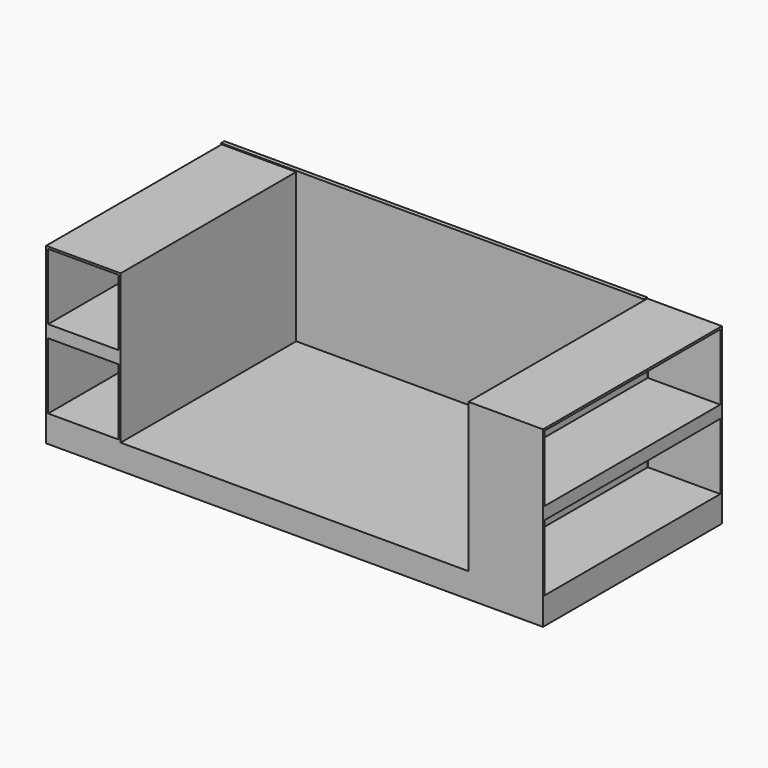
from build123d import *

# Parameters (mm, degrees)
F0_W     = 431.8
F0_H     = 406.4
F1_DEPTH = 1371.6
F3_T     = -2.54
F2_W     = 1371.6
F2_H     = 1066.8
F2_W_2   = 1346.2
F2_H_2   = 406.4
F4_DEPTH = 444.5
F5_W     = 2594.2790210247
F5_H     = 921.9796732068
F6_DEPTH = 25.4


with BuildPart() as f1:
    # F0 (on Front) → F1 (new body)
    with BuildSketch(Plane.XZ):
        Polygon((-444.5, 79.4924489021), (-2578.1, 79.4924489021), (-2578.1, 993.8924489021), (-3035.3, 993.8924489021), (-3035.3, 79.4924489021), (-3035.3, -72.9075510979), (12.7, -72.9075510979), (12.7, 79.4924489021), (12.7, 993.8924489021), (-444.5, 993.8924489021), align=None)
        with Locations((-2806.7, 295.3924489021)):
            Rectangle(F0_W, F0_H, mode=Mode.SUBTRACT)
        with Locations((-2806.7, 777.9924489021)):
            Rectangle(F0_W, F0_H, mode=Mode.SUBTRACT)
    extrude(amount=F1_DEPTH)

    # F3
    f3_openings = [f1.faces().sort_by_distance(p)[0] for p in [
        (12.7, -685.8, 460.492449),
    ]]
    offset(amount=F3_T, openings=f3_openings, kind=Kind.INTERSECTION)

    # F2 (on face) → F4 (join)
    with BuildSketch(Plane.YZ.offset(12.7)):
        with Locations((-685.8, 460.4924489021)):
            Rectangle(F2_W, F2_H)
        with Locations((-685.8, 295.3924489021)):
            Rectangle(F2_W_2, F2_H_2, mode=Mode.SUBTRACT)
        with Locations((-685.8, 777.9924489021)):
            Rectangle(F2_W_2, F2_H_2, mode=Mode.SUBTRACT)
    extrude(amount=-F4_DEPTH)

    # F5 (on Front) → F6 (join)
    with BuildSketch(Plane.XZ):
        with Locations((-1742.5772100687, 539.0826426446)):
            Rectangle(F5_W, F5_H)
    extrude(amount=F6_DEPTH)


solid = f1.part
